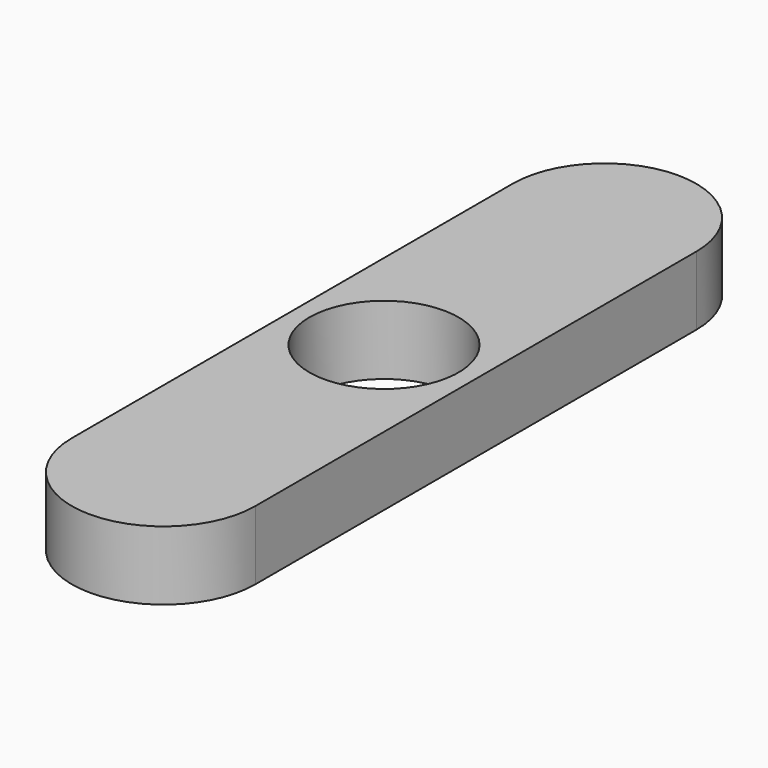
from build123d import *

# Parameters (mm, degrees)
F1_DEPTH = 1.5


with BuildPart() as f1:
    # F0 (on Top) → F1 (new body)
    with BuildSketch(Plane.XY):
        with BuildLine():
            Line((2, 0), (1.625, 0))
            ThreePointArc((1.625, 0), (0, -1.625), (-1.625, 0))
            Line((-1.625, 0), (-2, 0))
            ThreePointArc((-2, 0), (0, -2), (2, 0))
        make_face()
        with BuildLine():
            ThreePointArc((-2, 6), (0, 4), (2, 6))
            ThreePointArc((2, 6), (0, 8), (-2, 6))
        make_face()
        with BuildLine():
            ThreePointArc((-2, 0), (0, 2), (2, 0))
            Line((2, 0), (2, 6))
            ThreePointArc((2, 6), (0, 4), (-2, 6))
            Line((-2, 6), (-2, 0))
        make_face()
        with BuildLine():
            Line((2, -6), (2, 0))
            ThreePointArc((2, 0), (0, -2), (-2, 0))
            Line((-2, 0), (-2, -6))
            ThreePointArc((-2, -6), (0, -4), (2, -6))
        make_face()
        with BuildLine():
            ThreePointArc((-2, -6), (0, -8), (2, -6))
            ThreePointArc((2, -6), (0, -4), (-2, -6))
        make_face()
        with BuildLine():
            ThreePointArc((-1.625, 0), (0, 1.625), (1.625, 0))
            Line((1.625, 0), (2, 0))
            ThreePointArc((2, 0), (0, 2), (-2, 0))
            Line((-2, 0), (-1.625, 0))
        make_face()
    extrude(amount=F1_DEPTH)


solid = f1.part
